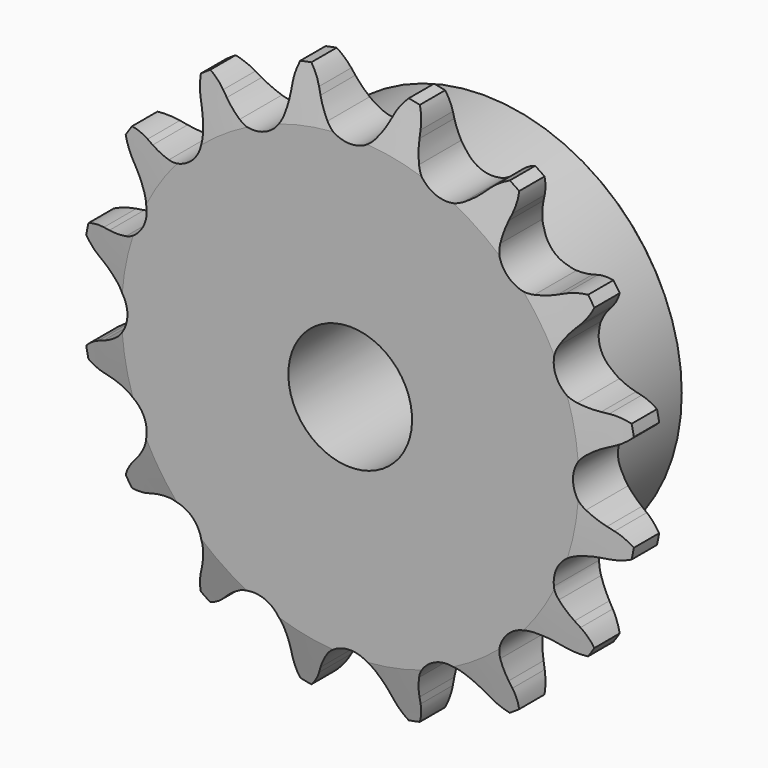
from build123d import *

# Parameters (mm, degrees)
F0_W     = 7.2136
F0_H     = 17.4625
F0_W_2   = 15.0114
F0_H_2   = 10.287
F2_R     = 1.5875
F3_SIZE  = 0.79375
F4_SIZE2 = 6.35
F4_SIZE  = 1.5748
F6_DEPTH = 22.226


with BuildPart() as f1:
    # F0 (on Right) → F1 (revolve)
    with BuildSketch(Plane.YZ):
        with Locations((3.6068, 16.66875)):
            Rectangle(F0_W, F0_H)
        with Locations((14.7193, 16.66875)):
            Rectangle(F0_W_2, F0_H)
        with Locations((3.6068, 30.5435)):
            Rectangle(F0_W, F0_H_2)
    revolve(axis=Axis((0, 11.1125, 0), (0, 1, 0)))

    # F2
    f2_edges = [f1.edges().sort_by_distance(p)[0] for p in [
        (0, 7.2136, -25.4),
    ]]
    fillet(f2_edges, radius=F2_R)

    # F3
    f3_edges = [f1.edges().sort_by_distance(p)[0] for p in [
        (0, 22.225, -7.9375),
        (0, 22.225, -25.4),
    ]]
    chamfer(f3_edges, length=F3_SIZE)

    # F4
    f4_edges = [f1.edges().sort_by_distance(p)[0] for p in [
        (0, 7.2136, -35.687),
        (0, 0, -35.687),
        (0, 3.6068, 35.687),
    ]]
    f4_side = f1.faces().sort_by_distance((0, 3.6068, -35.687))[0]
    chamfer(f4_edges, length=F4_SIZE, length2=F4_SIZE2, reference=f4_side)

    # F5 (on face) → F6 (intersect, through all)
    with BuildSketch(Plane.XZ):
        with BuildLine():
            ThreePointArc((-3.0902142758, 30.0699408338), (-3.8441959519, 31.1417538349), (-4.4568878106, 32.3001493474))
            Line((-4.4568878106, 32.3001493474), (-4.8164154778, 33.0982711732))
            ThreePointArc((-4.8164154778, 33.0982711732), (-5.7824590494, 34.6345413147), (-7.1308367855, 35.8491373836))
            ThreePointArc((-7.1308367855, 35.8491373836), (-7.9117695854, 34.2109951151), (-8.2163723379, 32.4219777052))
            Line((-8.2163723379, 32.4219777052), (-8.2431045912, 31.5470240041))
            ThreePointArc((-8.2431045912, 31.5470240041), (-8.3658592885, 30.2423390761), (-8.6522824488, 28.963576686))
            ThreePointArc((-8.6522824488, 28.963576686), (-10.9400391594, 26.4115909116), (-14.3622538898, 26.5984290744))
            ThreePointArc((-14.3622538898, 26.5984290744), (-15.4690072063, 27.300118873), (-16.4783594451, 28.135869754))
            Line((-16.4783594451, 28.135869754), (-17.115947698, 28.7356528917))
            ThreePointArc((-17.115947698, 28.7356528917), (-18.596360712, 29.7852925621), (-20.3069050971, 30.3914311902))
            ThreePointArc((-20.3069050971, 30.3914311902), (-20.4015030212, 28.5791350327), (-19.9982919468, 26.8097320375))
            Line((-19.9982919468, 26.8097320375), (-19.688159043, 25.9911502307))
            ThreePointArc((-19.688159043, 25.9911502307), (-19.3022882889, 24.7388023405), (-19.0775476037, 23.4477705432))
            ThreePointArc((-19.0775476037, 23.4477705432), (-20.2145565285, 20.2145565285), (-23.4477705432, 19.0775476037))
            ThreePointArc((-23.4477705432, 19.0775476037), (-24.7388023405, 19.3022882889), (-25.9911502307, 19.688159043))
            Line((-25.9911502307, 19.688159043), (-26.8097320375, 19.9982919468))
            ThreePointArc((-26.8097320375, 19.9982919468), (-28.5791350327, 20.4015030212), (-30.3914311902, 20.3069050971))
            ThreePointArc((-30.3914311902, 20.3069050971), (-29.7852925621, 18.596360712), (-28.7356528917, 17.115947698))
            Line((-28.7356528917, 17.115947698), (-28.135869754, 16.4783594451))
            ThreePointArc((-28.135869754, 16.4783594451), (-27.300118873, 15.4690072063), (-26.5984290744, 14.3622538898))
            ThreePointArc((-26.5984290744, 14.3622538898), (-26.4115909116, 10.9400391594), (-28.963576686, 8.6522824488))
            ThreePointArc((-28.963576686, 8.6522824488), (-30.2423390761, 8.3658592885), (-31.5470240041, 8.2431045912))
            Line((-31.5470240041, 8.2431045912), (-32.4219777052, 8.2163723379))
            ThreePointArc((-32.4219777052, 8.2163723379), (-34.2109951151, 7.9117695854), (-35.8491373836, 7.1308367855))
            ThreePointArc((-35.8491373836, 7.1308367855), (-34.6345413147, 5.7824590494), (-33.0982711732, 4.8164154778))
            Line((-33.0982711732, 4.8164154778), (-32.3001493474, 4.4568878106))
            ThreePointArc((-32.3001493474, 4.4568878106), (-31.1417538349, 3.8441959519), (-30.0699408338, 3.0902142758))
            ThreePointArc((-30.0699408338, 3.0902142758), (-28.5877, 0), (-30.0699408338, -3.0902142758))
            ThreePointArc((-30.0699408338, -3.0902142758), (-31.1417538349, -3.8441959519), (-32.3001493474, -4.4568878106))
            Line((-32.3001493474, -4.4568878106), (-33.0982711732, -4.8164154778))
            ThreePointArc((-33.0982711732, -4.8164154778), (-34.6345413147, -5.7824590494), (-35.8491373836, -7.1308367855))
            ThreePointArc((-35.8491373836, -7.1308367855), (-34.2109951151, -7.9117695854), (-32.4219777052, -8.2163723379))
            Line((-32.4219777052, -8.2163723379), (-31.5470240041, -8.2431045912))
            ThreePointArc((-31.5470240041, -8.2431045912), (-30.2423390761, -8.3658592885), (-28.963576686, -8.6522824488))
            ThreePointArc((-28.963576686, -8.6522824488), (-26.7777947036, -10.2549345468), (-26.1335071629, -12.8876195235))
            ThreePointArc((-26.1335071629, -12.8876195235), (-24.4370751466, -15.0014442646), (-24.4962255145, -17.7111744829))
            ThreePointArc((-24.4962255145, -17.7111744829), (-24.8994533297, -18.6171622932), (-25.3874309068, -19.4804608902))
            ThreePointArc((-25.3874309068, -19.4804608902), (-24.4272506056, -19.2325488644), (-23.4477705432, -19.0775476037))
            ThreePointArc((-23.4477705432, -19.0775476037), (-20.2145565285, -20.2145565285), (-19.0775476037, -23.4477705432))
            ThreePointArc((-19.0775476037, -23.4477705432), (-19.3022882889, -24.7388023405), (-19.688159043, -25.9911502307))
            Line((-19.688159043, -25.9911502307), (-19.9982919468, -26.8097320375))
            ThreePointArc((-19.9982919468, -26.8097320375), (-20.4015030212, -28.5791350327), (-20.3069050971, -30.3914311902))
            ThreePointArc((-20.3069050971, -30.3914311902), (-18.596360712, -29.7852925621), (-17.115947698, -28.7356528917))
            Line((-17.115947698, -28.7356528917), (-16.4783594451, -28.135869754))
            ThreePointArc((-16.4783594451, -28.135869754), (-15.4690072063, -27.300118873), (-14.3622538898, -26.5984290744))
            ThreePointArc((-14.3622538898, -26.5984290744), (-10.9400391594, -26.4115909116), (-8.6522824488, -28.963576686))
            ThreePointArc((-8.6522824488, -28.963576686), (-8.3658592885, -30.2423390761), (-8.2431045912, -31.5470240041))
            Line((-8.2431045912, -31.5470240041), (-8.2163723379, -32.4219777052))
            ThreePointArc((-8.2163723379, -32.4219777052), (-7.9117695854, -34.2109951151), (-7.1308367855, -35.8491373836))
            ThreePointArc((-7.1308367855, -35.8491373836), (-5.7824590494, -34.6345413147), (-4.8164154778, -33.0982711732))
            Line((-4.8164154778, -33.0982711732), (-4.4568878106, -32.3001493474))
            ThreePointArc((-4.4568878106, -32.3001493474), (-3.8441959519, -31.1417538349), (-3.0902142758, -30.0699408338))
            ThreePointArc((-3.0902142758, -30.0699408338), (0, -28.5877), (3.0902142758, -30.0699408338))
            ThreePointArc((3.0902142758, -30.0699408338), (3.8441959519, -31.1417538349), (4.4568878106, -32.3001493474))
            Line((4.4568878106, -32.3001493474), (4.8164154778, -33.0982711732))
            ThreePointArc((4.8164154778, -33.0982711732), (5.7824590494, -34.6345413147), (7.1308367855, -35.8491373836))
            ThreePointArc((7.1308367855, -35.8491373836), (7.9117695854, -34.2109951151), (8.2163723379, -32.4219777052))
            Line((8.2163723379, -32.4219777052), (8.2431045912, -31.5470240041))
            ThreePointArc((8.2431045912, -31.5470240041), (8.3658592885, -30.2423390761), (8.6522824488, -28.963576686))
            ThreePointArc((8.6522824488, -28.963576686), (10.9400391594, -26.4115909116), (14.3622538898, -26.5984290744))
            ThreePointArc((14.3622538898, -26.5984290744), (15.4690072063, -27.300118873), (16.4783594451, -28.135869754))
            Line((16.4783594451, -28.135869754), (17.115947698, -28.7356528917))
            ThreePointArc((17.115947698, -28.7356528917), (18.596360712, -29.7852925621), (20.3069050971, -30.3914311902))
            ThreePointArc((20.3069050971, -30.3914311902), (20.4015030212, -28.5791350327), (19.9982919468, -26.8097320375))
            Line((19.9982919468, -26.8097320375), (19.688159043, -25.9911502307))
            ThreePointArc((19.688159043, -25.9911502307), (19.3022882889, -24.7388023405), (19.0775476037, -23.4477705432))
            ThreePointArc((19.0775476037, -23.4477705432), (20.2145565285, -20.2145565285), (23.4477705432, -19.0775476037))
            ThreePointArc((23.4477705432, -19.0775476037), (24.4272506056, -19.2325488644), (25.3874309068, -19.4804608902))
            ThreePointArc((25.3874309068, -19.4804608902), (24.8994533297, -18.6171622932), (24.4962255145, -17.7111744829))
            ThreePointArc((24.4962255145, -17.7111744829), (24.4370751466, -15.0014442646), (26.1335071629, -12.8876195235))
            ThreePointArc((26.1335071629, -12.8876195235), (26.7777947036, -10.2549345468), (28.963576686, -8.6522824488))
            ThreePointArc((28.963576686, -8.6522824488), (30.2423390761, -8.3658592885), (31.5470240041, -8.2431045912))
            Line((31.5470240041, -8.2431045912), (32.4219777052, -8.2163723379))
            ThreePointArc((32.4219777052, -8.2163723379), (34.2109951151, -7.9117695854), (35.8491373836, -7.1308367855))
            ThreePointArc((35.8491373836, -7.1308367855), (34.6345413147, -5.7824590494), (33.0982711732, -4.8164154778))
            Line((33.0982711732, -4.8164154778), (32.3001493474, -4.4568878106))
            ThreePointArc((32.3001493474, -4.4568878106), (31.1417538349, -3.8441959519), (30.0699408338, -3.0902142758))
            ThreePointArc((30.0699408338, -3.0902142758), (28.5877, 0), (30.0699408338, 3.0902142758))
            ThreePointArc((30.0699408338, 3.0902142758), (31.1417538349, 3.8441959519), (32.3001493474, 4.4568878106))
            Line((32.3001493474, 4.4568878106), (33.0982711732, 4.8164154778))
            ThreePointArc((33.0982711732, 4.8164154778), (34.6345413147, 5.7824590494), (35.8491373836, 7.1308367855))
            ThreePointArc((35.8491373836, 7.1308367855), (34.2109951151, 7.9117695854), (32.4219777052, 8.2163723379))
            Line((32.4219777052, 8.2163723379), (31.5470240041, 8.2431045912))
            ThreePointArc((31.5470240041, 8.2431045912), (30.2423390761, 8.3658592885), (28.963576686, 8.6522824488))
            ThreePointArc((28.963576686, 8.6522824488), (26.4115909116, 10.9400391594), (26.5984290744, 14.3622538898))
            ThreePointArc((26.5984290744, 14.3622538898), (27.300118873, 15.4690072063), (28.135869754, 16.4783594451))
            Line((28.135869754, 16.4783594451), (28.7356528917, 17.115947698))
            ThreePointArc((28.7356528917, 17.115947698), (29.7852925621, 18.596360712), (30.3914311902, 20.3069050971))
            ThreePointArc((30.3914311902, 20.3069050971), (28.5791350327, 20.4015030212), (26.8097320375, 19.9982919468))
            Line((26.8097320375, 19.9982919468), (25.9911502307, 19.688159043))
            ThreePointArc((25.9911502307, 19.688159043), (24.7388023405, 19.3022882889), (23.4477705432, 19.0775476037))
            ThreePointArc((23.4477705432, 19.0775476037), (20.2145565285, 20.2145565285), (19.0775476037, 23.4477705432))
            ThreePointArc((19.0775476037, 23.4477705432), (19.3022882889, 24.7388023405), (19.688159043, 25.9911502307))
            Line((19.688159043, 25.9911502307), (19.9982919468, 26.8097320375))
            ThreePointArc((19.9982919468, 26.8097320375), (20.4015030212, 28.5791350327), (20.3069050971, 30.3914311902))
            ThreePointArc((20.3069050971, 30.3914311902), (18.596360712, 29.7852925621), (17.115947698, 28.7356528917))
            Line((17.115947698, 28.7356528917), (16.4783594451, 28.135869754))
            ThreePointArc((16.4783594451, 28.135869754), (15.4690072063, 27.300118873), (14.3622538898, 26.5984290744))
            ThreePointArc((14.3622538898, 26.5984290744), (10.9400391594, 26.4115909116), (8.6522824488, 28.963576686))
            ThreePointArc((8.6522824488, 28.963576686), (8.3658592885, 30.2423390761), (8.2431045912, 31.5470240041))
            Line((8.2431045912, 31.5470240041), (8.2163723379, 32.4219777052))
            ThreePointArc((8.2163723379, 32.4219777052), (7.9117695854, 34.2109951151), (7.1308367855, 35.8491373836))
            ThreePointArc((7.1308367855, 35.8491373836), (5.7824590494, 34.6345413147), (4.8164154778, 33.0982711732))
            Line((4.8164154778, 33.0982711732), (4.4568878106, 32.3001493474))
            ThreePointArc((4.4568878106, 32.3001493474), (3.8441959519, 31.1417538349), (3.0902142758, 30.0699408338))
            ThreePointArc((3.0902142758, 30.0699408338), (0, 28.5877), (-3.0902142758, 30.0699408338))
        make_face()
        with BuildLine():
            ThreePointArc((-24.4962255145, -17.7111744829), (-24.4370751466, -15.0014442646), (-26.1335071629, -12.8876195235))
            ThreePointArc((-26.1335071629, -12.8876195235), (-26.2933421667, -13.6478341768), (-26.5984290744, -14.3622538898))
            ThreePointArc((-26.5984290744, -14.3622538898), (-27.300118873, -15.4690072063), (-28.135869754, -16.4783594451))
            Line((-28.135869754, -16.4783594451), (-28.7356528917, -17.115947698))
            ThreePointArc((-28.7356528917, -17.115947698), (-29.7852925621, -18.596360712), (-30.3914311902, -20.3069050971))
            ThreePointArc((-30.3914311902, -20.3069050971), (-28.5791350327, -20.4015030212), (-26.8097320375, -19.9982919468))
            Line((-26.8097320375, -19.9982919468), (-25.9911502307, -19.688159043))
            ThreePointArc((-25.9911502307, -19.688159043), (-25.6908904111, -19.5796596809), (-25.3874309068, -19.4804608902))
            ThreePointArc((-25.3874309068, -19.4804608902), (-24.8994533297, -18.6171622932), (-24.4962255145, -17.7111744829))
        make_face()
        with BuildLine():
            ThreePointArc((26.5984290744, -14.3622538898), (26.2933421667, -13.6478341768), (26.1335071629, -12.8876195235))
            ThreePointArc((26.1335071629, -12.8876195235), (24.4370751466, -15.0014442646), (24.4962255145, -17.7111744829))
            ThreePointArc((24.4962255145, -17.7111744829), (24.8994533297, -18.6171622932), (25.3874309068, -19.4804608902))
            ThreePointArc((25.3874309068, -19.4804608902), (25.6908904111, -19.5796596809), (25.9911502307, -19.688159043))
            Line((25.9911502307, -19.688159043), (26.8097320375, -19.9982919468))
            ThreePointArc((26.8097320375, -19.9982919468), (28.5791350327, -20.4015030212), (30.3914311902, -20.3069050971))
            ThreePointArc((30.3914311902, -20.3069050971), (29.7852925621, -18.596360712), (28.7356528917, -17.115947698))
            Line((28.7356528917, -17.115947698), (28.135869754, -16.4783594451))
            ThreePointArc((28.135869754, -16.4783594451), (27.300118873, -15.4690072063), (26.5984290744, -14.3622538898))
        make_face()
    extrude(amount=-F6_DEPTH, mode=Mode.INTERSECT)


solid = f1.part
